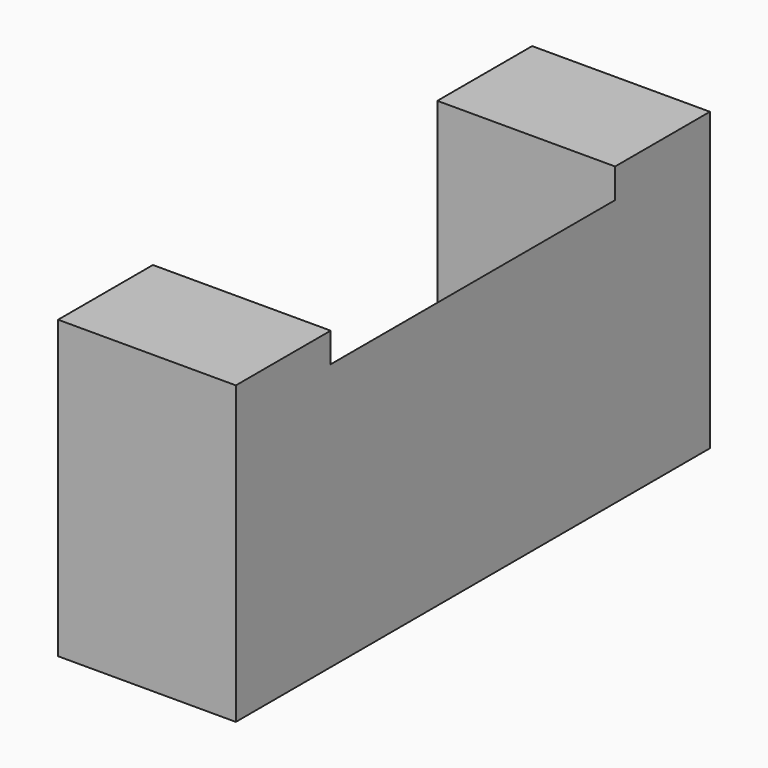
from build123d import *

# Parameters (mm, degrees)
F1_DEPTH = 63.5
F2_DEPTH = 25.4


with BuildPart() as f1:
    # F0 (on Front) → F1 (new body)
    with BuildSketch(Plane.XZ):
        Polygon((-47.017376, -2.352624), (-47.017376, -21.402624), (-8.917376, -21.402624), (-8.917376, 35.747376), align=None)
    extrude(amount=F1_DEPTH)

    # F0 (on Front) → F2 (join)
    with BuildSketch(Plane.XZ):
        Polygon((-47.017376, 42.097376), (-47.017376, -2.352624), (-8.917376, 35.747376), (-8.917376, 42.097376), align=None)
    extrude(amount=F2_DEPTH)

    # F3: F1 across face


with BuildPart() as f1_1:
    add(f1.part)
    add(f1.part.mirror(Plane(origin=(-24.792376, -63.5, -0.765124), x_dir=(1, 0, 0), z_dir=(0, -1, 0))))


solid = f1_1.part
